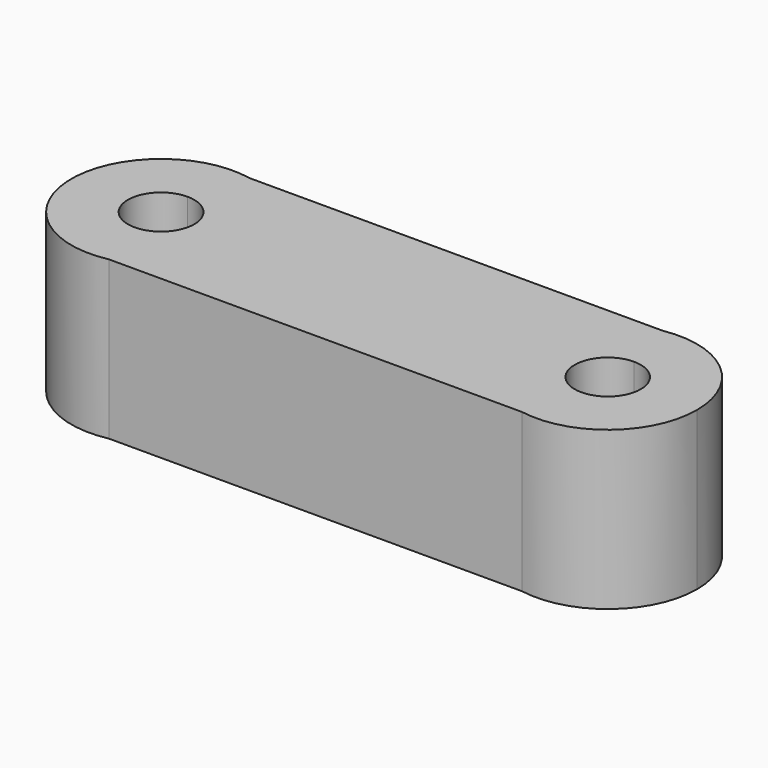
from build123d import *

# Parameters (mm, degrees)
F0_W     = 37.843548
F0_H     = 12.723478
F1_DEPTH = 25.4


with BuildPart() as f1:
    # F0 (on Top) → F1 (new body)
    with BuildSketch(Plane.XY):
        with BuildLine():
            Line((-35.941429, -14.156543), (-33.034295, -14.156543))
            ThreePointArc((-33.034295, -14.156543), (-24.741587, -9.133602), (-21.489469, 0))
            ThreePointArc((-21.489469, 0), (-24.741587, 9.133602), (-33.034295, 14.156543))
            Line((-33.034295, 14.156543), (-35.941429, 14.156543))
            Line((-35.941429, 14.156543), (-35.941429, 5.333182))
            ThreePointArc((-35.941429, 5.333182), (-32.1703, 3.771129), (-30.608247, 0))
            ThreePointArc((-30.608247, 0), (-32.1703, -3.771129), (-35.941429, -5.333182))
            Line((-35.941429, -5.333182), (-35.941429, -14.156543))
        make_face()
        with BuildLine():
            ThreePointArc((-33.034295, 14.156543), (-50.39339, 0), (-33.034295, -14.156543))
            Line((-33.034295, -14.156543), (-35.941429, -14.156543))
            Line((-35.941429, -14.156543), (-35.941429, -5.333182))
            ThreePointArc((-35.941429, -5.333182), (-41.274612, 0), (-35.941429, 5.333182))
            Line((-35.941429, 5.333182), (-35.941429, 14.156543))
            Line((-35.941429, 14.156543), (-33.034295, 14.156543))
        make_face()
        with BuildLine():
            Line((-33.034295, -14.156543), (33.472655, -14.156543))
            ThreePointArc((33.472655, -14.156543), (21.571232, 0), (33.472655, 14.156543))
            Line((33.472655, 14.156543), (-33.034295, 14.156543))
            ThreePointArc((-33.034295, 14.156543), (-24.741587, 9.133602), (-21.489469, 0))
            ThreePointArc((-21.489469, 0), (-24.741587, -9.133602), (-33.034295, -14.156543))
        make_face()
        Rectangle(F0_W, F0_H, mode=Mode.SUBTRACT)
        Rectangle(F0_W, F0_H)
        with BuildLine():
            Line((33.472655, -14.156543), (35.941429, -14.156543))
            Line((35.941429, -14.156543), (35.941429, -5.316778))
            ThreePointArc((35.941429, -5.316778), (30.624652, 0), (35.941429, 5.316778))
            Line((35.941429, 5.316778), (35.941429, 14.156543))
            Line((35.941429, 14.156543), (33.472655, 14.156543))
            ThreePointArc((33.472655, 14.156543), (21.571232, 0), (33.472655, -14.156543))
        make_face()
        with BuildLine():
            Line((35.941429, -5.316778), (35.941429, -14.156543))
            Line((35.941429, -14.156543), (33.472655, -14.156543))
            ThreePointArc((33.472655, -14.156543), (45.188748, -10.99953), (50.311627, 0))
            ThreePointArc((50.311627, 0), (45.188748, 10.99953), (33.472655, 14.156543))
            Line((33.472655, 14.156543), (35.941429, 14.156543))
            Line((35.941429, 14.156543), (35.941429, 5.316778))
            ThreePointArc((35.941429, 5.316778), (39.700959, 3.75953), (41.258207, 0))
            ThreePointArc((41.258207, 0), (39.700959, -3.75953), (35.941429, -5.316778))
        make_face()
    extrude(amount=F1_DEPTH)


solid = f1.part
